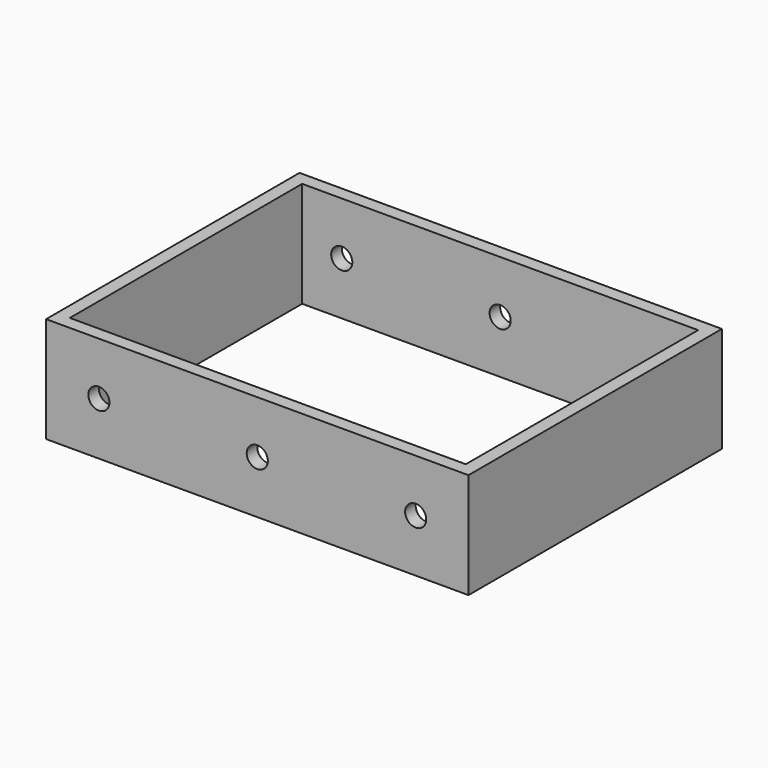
from build123d import *

# Parameters (mm, degrees)
F0_W     = 80
F0_H     = 60
F1_DEPTH = 20
F2_W     = 75
F2_H     = 55
F3_DEPTH = 20.001
F4_R     = 2
F5_DEPTH = 60.001


with BuildPart() as f1:
    # F0 (on Top) → F1 (new body)
    with BuildSketch(Plane.XY):
        Rectangle(F0_W, F0_H)
    extrude(amount=F1_DEPTH)

    # F2 (on face) → F3 (cut, through all)
    with BuildSketch(Plane.XY.offset(20)):
        Rectangle(F2_W, F2_H)
    extrude(amount=-F3_DEPTH, mode=Mode.SUBTRACT)

    # F4 (on face) → F5 (cut, through all)
    with BuildSketch(Plane.XZ.offset(30)):
        with Locations((-30, 10)):
            Circle(F4_R)
        with Locations((0, 10)):
            Circle(F4_R)
        with Locations((30, 10)):
            Circle(F4_R)
    extrude(amount=-F5_DEPTH, mode=Mode.SUBTRACT)


solid = f1.part
